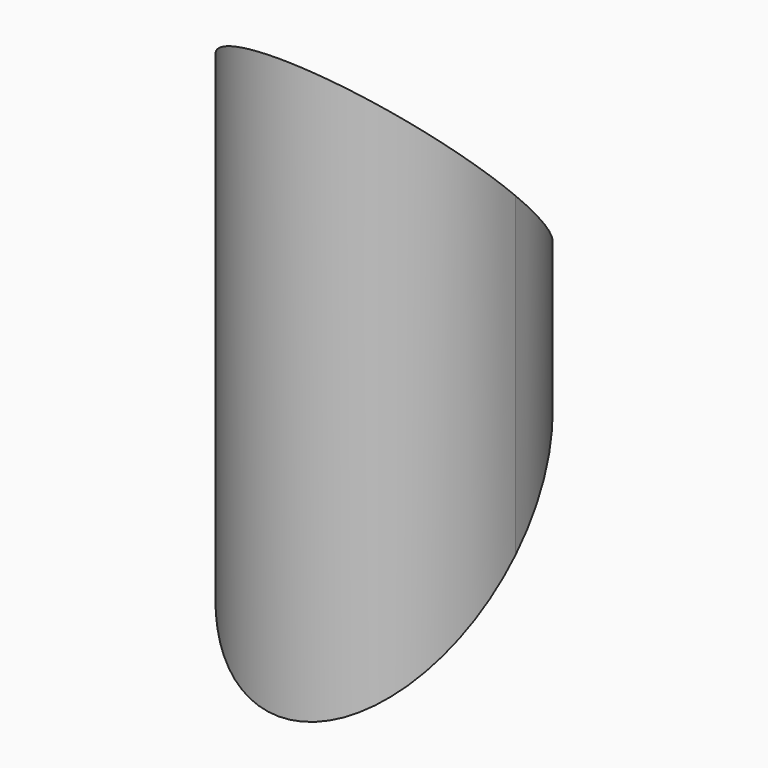
from build123d import *

# Parameters (mm, degrees)
F2_DEPTH = 110
F3_DEPTH = 25


with BuildPart() as f2:
    # F1 (on Top) → F2 (new body)
    with BuildSketch(Plane.XY):
        with BuildLine():
            ThreePointArc((25, -25), (17.6776695297, -7.3223304703), (0, 0))
            ThreePointArc((0, 0), (-17.6776695297, -42.6776695297), (25, -25))
        make_face()
        with BuildLine():
            ThreePointArc((21, -25), (-14.8492424049, -39.8492424049), (0, -4))
            ThreePointArc((0, -4), (14.8492424049, -10.1507575951), (21, -25))
        make_face(mode=Mode.SUBTRACT)
    extrude(amount=F2_DEPTH)

    # F0 (on Right) → F3 (cut, symmetric)
    with BuildSketch(Plane.YZ):
        Polygon((-50, 0), (0, 0), (0, 50), align=None)
        Polygon((-11.7635997148, 71.7635997148), (0, 60), (0, 71.7635997148), align=None)
        Polygon((-50, 110), (-11.7635997148, 71.7635997148), (0, 71.7635997148), (0, 110), align=None)
    extrude(amount=F3_DEPTH, both=True, mode=Mode.SUBTRACT)


solid = f2.part
